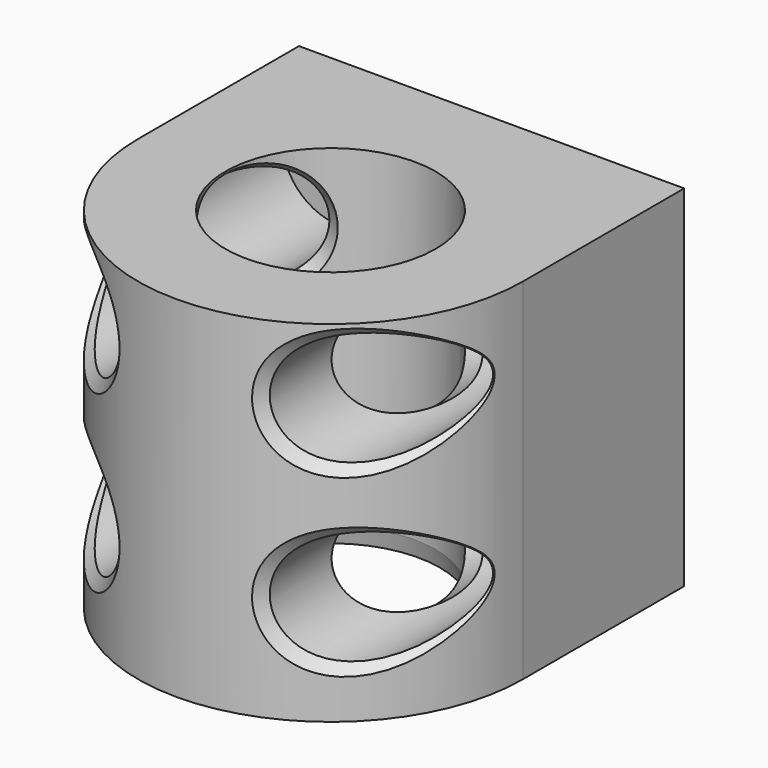
from build123d import *

# Parameters (mm, degrees)
SKETCH_R         = 6
PAD_DEPTH        = 20
SKETCH001_R      = 1.6
POCKET_DEPTH     = 30
SKETCH002_R      = 3.25
POCKET001_DEPTH  = 35
CHAMFER_SIZE     = 1.5
CHAMFER001_SIZE  = 0.5
CHAMFER002_SIZE  = 1
CHAMFER003_SIZE  = 1.5
CHAMFER004_SIZE2 = 0.25
CHAMFER004_SIZE  = 1


with BuildPart() as part:
    # Sketch → Pad (new body)
    with BuildSketch(Plane.XY):
        with BuildLine():
            Line((0, 0), (22, 0))
            Line((22, 0), (22, -13.000044))
            ThreePointArc((0, -13.000044), (11, -24), (22, -13.000044))
            Line((0, 0), (0, -13.000044))
        make_face()
        with Locations((11, -13)):
            Circle(SKETCH_R, mode=Mode.SUBTRACT)
    extrude(amount=PAD_DEPTH)

    # Sketch001 (on Face1 of Pad) → Pocket (cut)
    with BuildSketch(Plane(origin=(0, 0, 0), x_dir=(-1, 0, 0), z_dir=(0, 1, 0))):
        with Locations((-18.5, 16)):
            Circle(SKETCH001_R)
        with Locations((-3.5, 16)):
            Circle(SKETCH001_R)
        with Locations((-3.5, 6)):
            Circle(SKETCH001_R)
        with Locations((-18.5, 6)):
            Circle(SKETCH001_R)
    extrude(amount=-POCKET_DEPTH, mode=Mode.SUBTRACT)

    # Sketch002 (on DatumPlane) → Pocket001 (cut)
    with BuildSketch(Plane(origin=(0, -3, 0), x_dir=(-1, 0, 0), z_dir=(0, 1, 0))):
        with Locations((-18.5, 16)):
            Circle(SKETCH002_R)
        with Locations((-3.5, 16)):
            Circle(SKETCH002_R)
        with Locations((-18.5, 6)):
            Circle(SKETCH002_R)
        with Locations((-3.5, 6)):
            Circle(SKETCH002_R)
    extrude(amount=-POCKET001_DEPTH, mode=Mode.SUBTRACT)

    # Chamfer
    chamfer_edges = [part.edges().sort_by_distance(p)[0] for p in [
        (22, 0, 10),
    ]]
    chamfer(chamfer_edges, length=CHAMFER_SIZE)

    # Chamfer001
    chamfer001_edges = [part.edges().sort_by_distance(p)[0] for p in [
        (21.75, -15.331845, 16),
        (21.75, -15.331845, 6),
        (6.75, -23.145812, 6),
        (6.75, -23.145812, 16),
    ]]
    chamfer(chamfer001_edges, length=CHAMFER001_SIZE)

    # Chamfer002
    chamfer002_edges = [part.edges().sort_by_distance(p)[0] for p in [
        (5, -13, 18.883141),
        (5, -13, 8.883141),
        (16.26223, -15.882523, 3.64312),
        (16.26223, -15.882523, 13.64312),
    ]]
    chamfer(chamfer002_edges, length=CHAMFER002_SIZE)

    # Chamfer003
    chamfer003_edges = [part.edges().sort_by_distance(p)[0] for p in [
        (10.25, 0, 20),
    ]]
    chamfer(chamfer003_edges, length=CHAMFER003_SIZE)

    # Chamfer004
    chamfer004_edges = [part.edges().sort_by_distance(p)[0] for p in [
        (5, -13, 0),
    ]]
    chamfer004_side = part.faces().sort_by_distance((5, -13, 10))[0]
    chamfer(chamfer004_edges, length=CHAMFER004_SIZE, length2=CHAMFER004_SIZE2, reference=chamfer004_side)


solid = part.part
